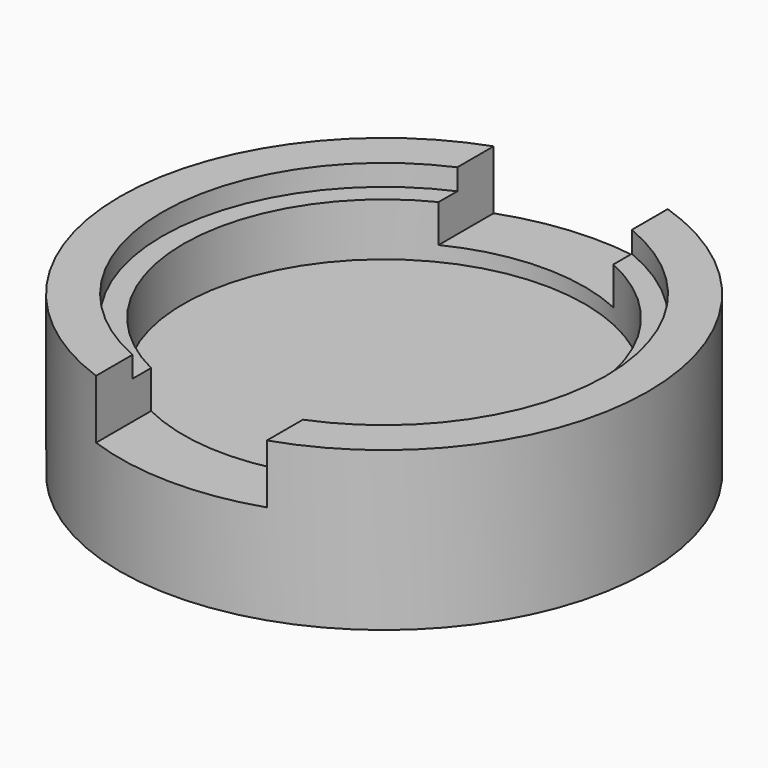
from build123d import *

# Parameters (mm, degrees)
F2_W          = 16.330645
F2_H          = 6.940524
F3_DEPTH      = 25
F3_DEPTH_BACK = 25


with BuildPart() as f1:
    # F0 (on Front) → F1 (revolve)
    with BuildSketch(Plane.XZ):
        Polygon((19, 0), (0, 0), (0, -13), (12.5, -13), (12.5, -8), (25, -8), (25, 7), (21, 7), (21, 5), (19, 5), align=None)
    revolve(axis=Axis((0, 0, -6.5), (0, 0, 1)))

    # F2 (on Front) → F3 (cut, two sides)
    with BuildSketch(Plane.XZ) as f3_sk:
        with Locations((-0.284285, 4.890013)):
            Rectangle(F2_W, F2_H)
    extrude(amount=F3_DEPTH, mode=Mode.SUBTRACT)
    extrude(f3_sk.sketch, amount=-F3_DEPTH_BACK, mode=Mode.SUBTRACT)


solid = f1.part
